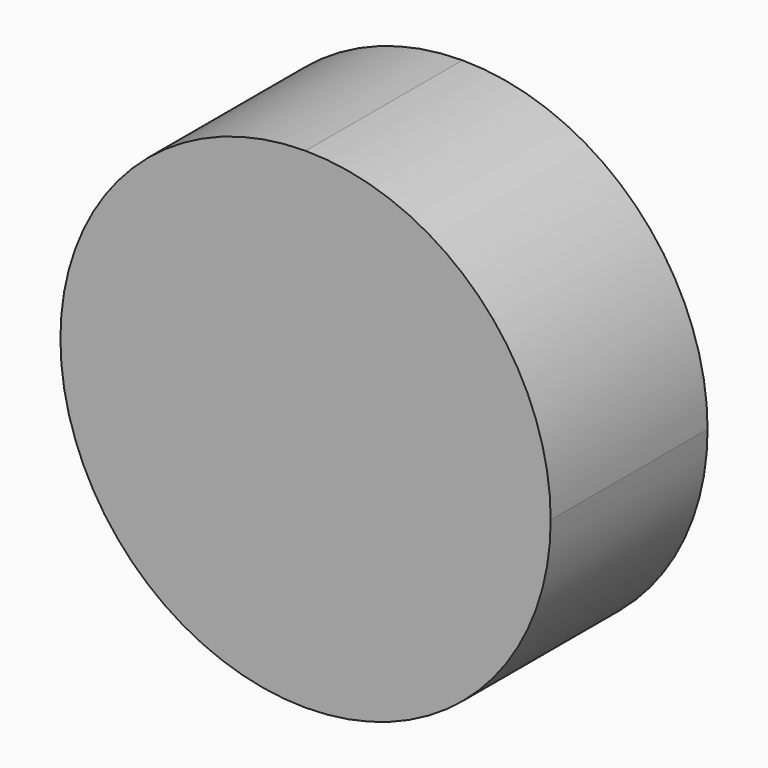
from build123d import *

# Parameters (mm, degrees)
F1_DEPTH = 25.4


with BuildPart() as f1:
    # F0 (on Front) → F1 (new body)
    with BuildSketch(Plane.XZ):
        with BuildLine():
            ThreePointArc((0, 31.75), (9.29936, 9.29936), (31.75, 0))
            ThreePointArc((31.75, 0), (54.20064, 9.29936), (63.5, 31.75))
            ThreePointArc((63.5, 31.75), (54.20064, 54.20064), (31.75, 63.5))
            ThreePointArc((31.75, 63.5), (9.29936, 54.20064), (0, 31.75))
        make_face()
    extrude(amount=F1_DEPTH)


solid = f1.part
